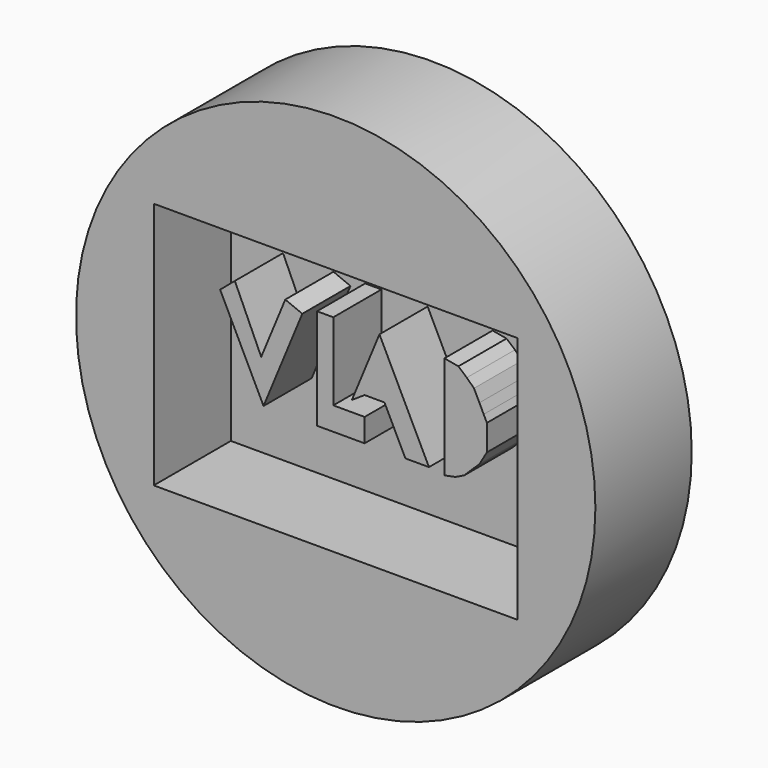
from build123d import *

# Parameters (mm, degrees)
F0_R     = 54.777634
F1_DEPTH = 25.4
F2_W     = 76.760076
F2_H     = 52.30828
F3_DEPTH = 20.32
F5_DEPTH = 12.7


with BuildPart() as f1:
    # F0 (on Front) → F1 (new body)
    with BuildSketch(Plane.XZ):
        Circle(F0_R)
    extrude(amount=F1_DEPTH)

    # F2 (on face) → F3 (cut)
    with BuildSketch(Plane.XZ.offset(25.4)):
        Rectangle(F2_W, F2_H)
    extrude(amount=-F3_DEPTH, mode=Mode.SUBTRACT)

    # F4 (on face) → F5 (join)
    with BuildSketch(Plane.XZ.offset(5.08)):
        Polygon((19.782942, 11.775956), (16.836673, 12.301875), (16.836673, -9.437174), (19.193688, -8.960415), (21.037921, -8.054476), (22.670284, -6.43198), (24.202343, -4.958846), (25.793329, -2.248279), (25.793329, 0.697988), (25.793329, 3.231779), (25.119537, 4.603426), (24.213784, 6.44728), (23.075252, 8.765006), (21.550702, 10.243896), align=None)
        Polygon((19.193688, -4.840995), (18.66336, 6.413748), (23.259537, 0.639063), align=None, mode=Mode.SUBTRACT)
        Polygon((3.131037, 12.301875), (-2.682529, -1.766953), (0, 0), (4.196519, 0), (8.598126, -8.960415), (13.575672, -8.960415), align=None)
        Polygon((5.098887, 2.528751), (1.241177, 2.483729), (3.013781, 6.77343), align=None, mode=Mode.SUBTRACT)
        Polygon((23.259537, 0.639063), (18.66336, 6.413748), (19.193688, -4.840995), align=None)
        Polygon((-27.369183, 12.301875), (-30.475451, 9.677191), (-21.320134, -8.960415), (-13.145746, 10.821605), (-16.727999, 12.301875), (-21.811419, 0), align=None)
        Polygon((-6.606236, 12.301875), (-10.039479, 12.301875), (-10.039479, -8.960415), (0, -8.960415), (0, -4.055782), (-6.606236, -4.055782), align=None)
        Polygon((3.013781, 6.77343), (1.241177, 2.483729), (5.098887, 2.528751), align=None)
    extrude(amount=F5_DEPTH)


solid = f1.part
